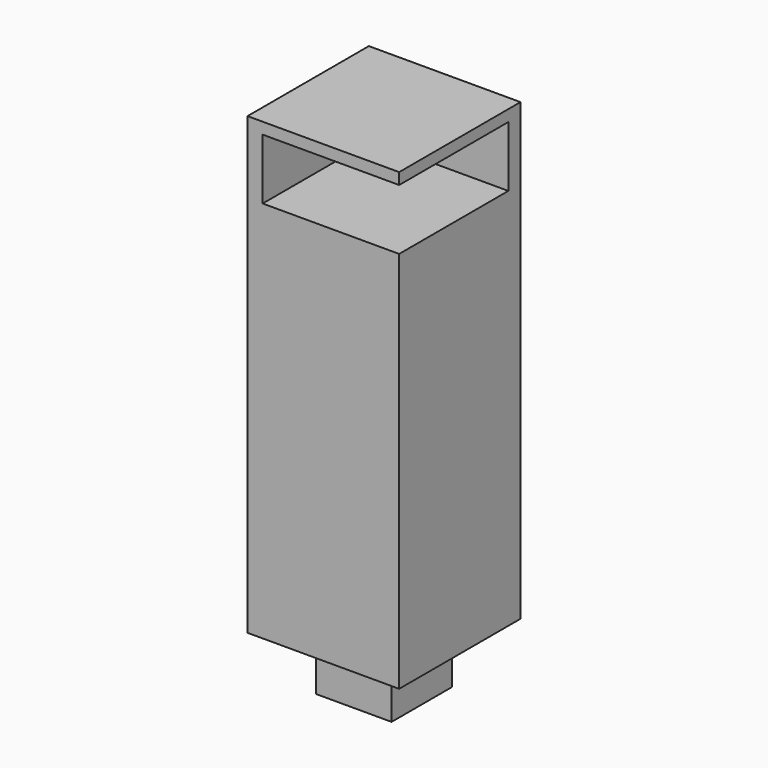
from build123d import *

# Parameters (mm, degrees)
F0_W     = 40
F0_H     = 40
F1_DEPTH = 120
F2_W     = 36
F2_H     = 16
F3_DEPTH = 36
F4_W     = 20
F4_H     = 20
F5_DEPTH = 15


with BuildPart() as f1:
    # F0 (on Top) → F1 (new body)
    with BuildSketch(Plane.XY):
        Rectangle(F0_W, F0_H)
    extrude(amount=F1_DEPTH)

    # F2 (on face) → F3 (cut)
    with BuildSketch(Plane.XZ.offset(20)):
        with Locations((2, 109)):
            Rectangle(F2_W, F2_H)
    extrude(amount=-F3_DEPTH, mode=Mode.SUBTRACT)

    # F4 (on face) → F5 (join)
    with BuildSketch(Plane(origin=(0, 0, 0), x_dir=(1, 0, 0), z_dir=(0, 0, -1))):
        Rectangle(F4_W, F4_H)
    extrude(amount=F5_DEPTH)


solid = f1.part
